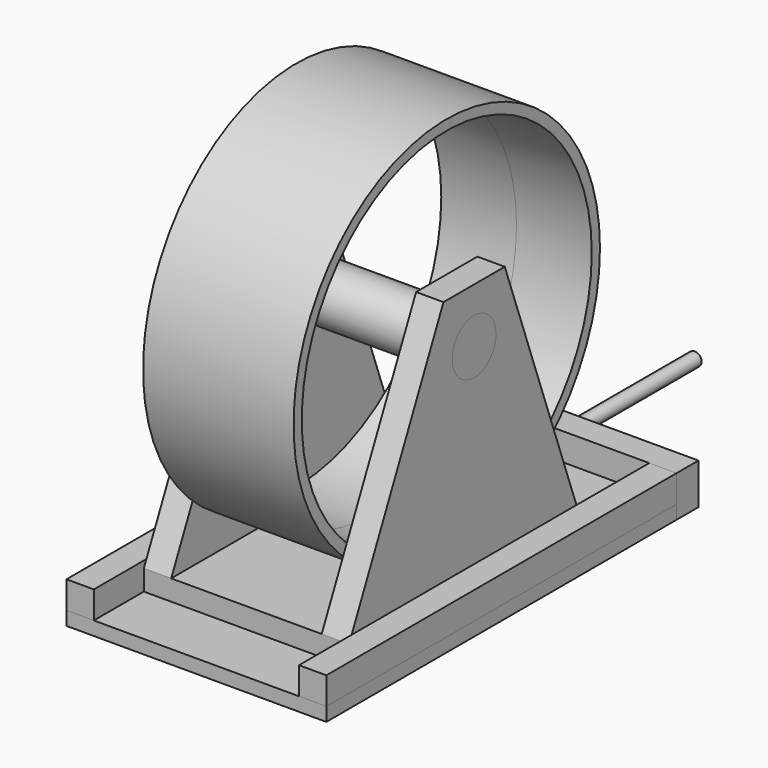
from build123d import *

# Parameters (mm, degrees)
F4_R          = 177.8
F4_R_2        = 168.275
F5_DEPTH      = 69.85
F5_DEPTH_BACK = 69.85
F6_W          = 241.3
F6_H          = 406.4
F7_DEPTH      = 12.7
F4_R_3        = 25.4
F8_DEPTH      = 95.25
F8_DEPTH_BACK = 95.25
F9_W          = 266.2148767065
F9_H          = 19.05
F9_R          = 25.4
F10_DEPTH     = 25.4
F12_DEPTH     = 190.5
F13_W         = 406.4
F13_H         = 25.4
F14_DEPTH     = 25.4
F16_R         = 6.35
F17_DEPTH     = 254
F18_W         = 241.3
F18_H         = 38.1
F19_DEPTH     = 25.4


with BuildPart() as f5:
    # F4 (on Right) → F5 (new body, two sides)
    with BuildSketch(Plane.YZ) as f5_sk:
        with Locations((0, 203.2)):
            Circle(F4_R)
        with Locations((0, 203.2)):
            Circle(F4_R_2, mode=Mode.SUBTRACT)
    extrude(amount=F5_DEPTH)
    extrude(f5_sk.sketch, amount=-F5_DEPTH_BACK)


with BuildPart() as f7:
    # F6 (on Top) → F7 (new body)
    with BuildSketch(Plane.XY):
        Rectangle(F6_W, F6_H)
    extrude(amount=-F7_DEPTH)


with BuildPart() as f8:
    # F4 (on Right) → F8 (new body, two sides)
    with BuildSketch(Plane.YZ) as f8_sk:
        with Locations((0, 203.2)):
            Circle(F4_R_3)
    extrude(amount=F8_DEPTH)
    extrude(f8_sk.sketch, amount=-F8_DEPTH_BACK)


with BuildPart() as f10:
    # F9 (on face) → F10 (new body)
    with BuildSketch(Plane.YZ.offset(95.25)):
        with Locations((-12.0220888713, 9.525)):
            Rectangle(F9_W, F9_H)
        Polygon((-35.5705429411, 254), (-145.1295272246, 19.05), (121.0853494819, 19.05), (35.5705429411, 254), align=None)
        with Locations((0, 203.2)):
            Circle(F9_R, mode=Mode.SUBTRACT)
    extrude(amount=-F10_DEPTH)


with BuildPart() as f11_1:
    # F11: instance of F10
    add(f10.part.mirror(Plane.YZ))


with BuildPart() as f10_1:
    add(f10.part)

    add(f11_1.part)  # F12 merges F11_1
    # F9 (on face) → F12 (join)
    with BuildSketch(Plane.YZ.offset(95.25)):
        with Locations((-12.0220888713, 9.525)):
            Rectangle(F9_W, F9_H)
    extrude(amount=-F12_DEPTH)


with BuildPart() as f14:
    # F13 (on face) → F14 (new body)
    with BuildSketch(Plane.YZ.offset(95.25)):
        with Locations((0, 12.7)):
            Rectangle(F13_W, F13_H)
    extrude(amount=F14_DEPTH)


with BuildPart() as f15_1:
    # F15: instance of F14
    add(f14.part.mirror(Plane.YZ))


with BuildPart() as f17:
    # F16 (on face) → F17 (new body)
    with BuildSketch(Plane(origin=(0, 121.0853494819, 0), x_dir=(-1, 0, 0), z_dir=(0, 1, 0))):
        with Locations((0, 9.525)):
            Circle(F16_R)
    extrude(amount=F17_DEPTH)


with BuildPart() as f19:
    # F18 (on face) → F19 (new body)
    with BuildSketch(Plane(origin=(0, 203.2, 0), x_dir=(-1, 0, 0), z_dir=(0, 1, 0))):
        with Locations((0, 6.35)):
            Rectangle(F18_W, F18_H)
    extrude(amount=F19_DEPTH)

    # F20: cut F17
    add(f17.part, mode=Mode.SUBTRACT)


solid = Compound([f5.part, f7.part, f8.part, f10_1.part, f14.part, f15_1.part, f17.part, f19.part])
